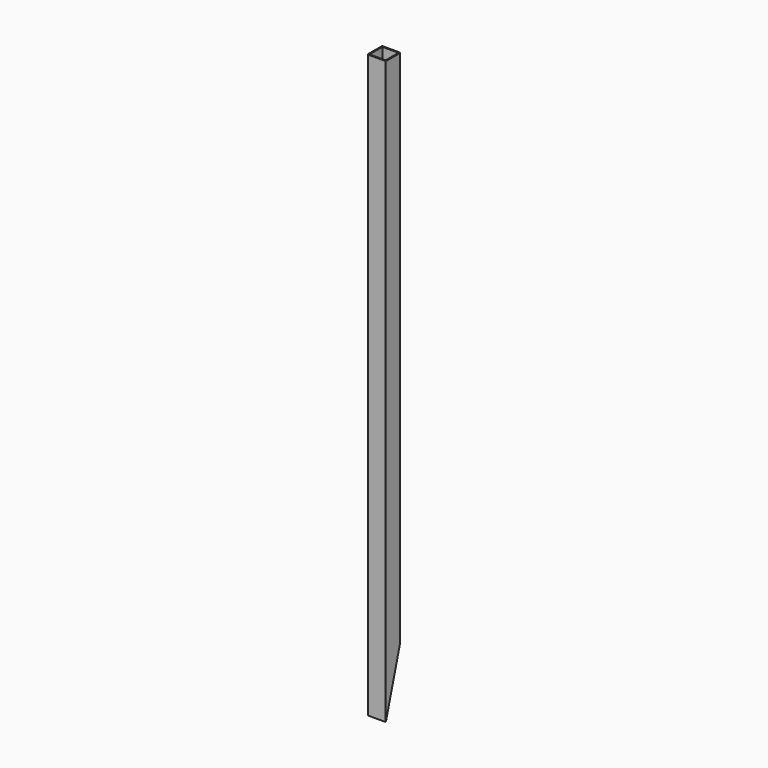
from build123d import *

# Parameters (mm, degrees)
SKETCH_W     = 25
SKETCH_H     = 25
SKETCH_W_2   = 22
SKETCH_H_2   = 22
PAD_DEPTH    = 793
FILLET_R     = 0.74
POCKET_DEPTH = 25.001


with BuildPart() as part:
    # Sketch → Pad (new body)
    with BuildSketch(Plane.XY):
        with Locations((12.5, 12.5)):
            Rectangle(SKETCH_W, SKETCH_H)
        with Locations((12.5, 12.5)):
            Rectangle(SKETCH_W_2, SKETCH_H_2, mode=Mode.SUBTRACT)
    extrude(amount=PAD_DEPTH)

    # Fillet
    fillet_edges = [part.edges().sort_by_distance(p)[0] for p in [
        (25, 0, 396.5),
        (0, 0, 396.5),
        (25, 25, 396.5),
        (0, 25, 396.5),
    ]]
    fillet(fillet_edges, radius=FILLET_R)

    # Sketch001 (on Face6 of Fillet) → Pocket (cut, through all)
    with BuildSketch(Plane(origin=(0, 0, 0), x_dir=(0, -1, 0), z_dir=(-1, 0, 0))):
        Polygon((0, 0), (-33.812955, 117.919787), (-33.812955, -15.683764), align=None)
    extrude(amount=-POCKET_DEPTH, mode=Mode.SUBTRACT)


solid = part.part
